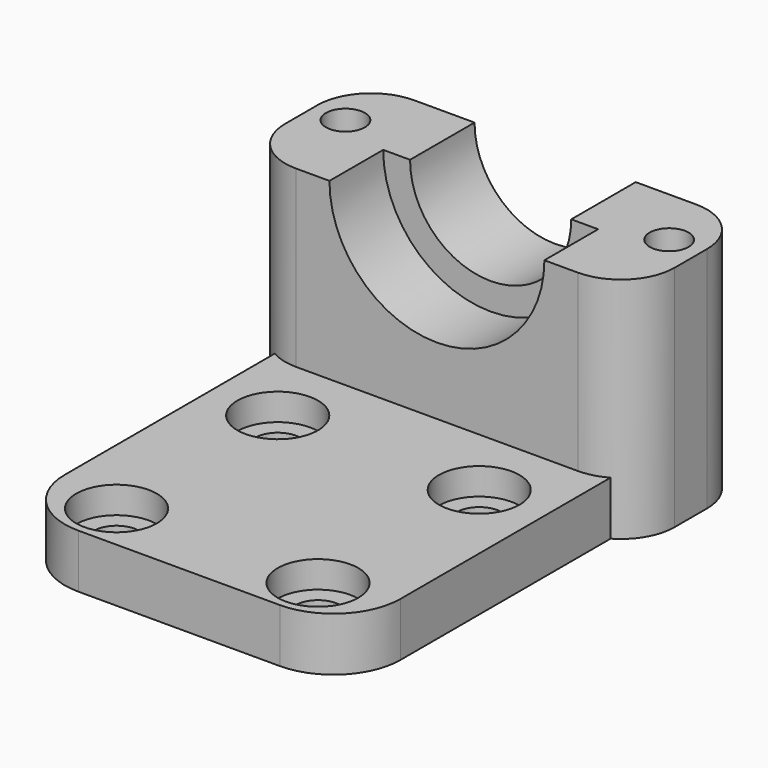
from build123d import *

# Parameters (mm, degrees)
F0_W      = 25
F0_H      = 35
F1_DEPTH  = 4
F2_R      = 1.675
F3_DEPTH  = 25
F4_W      = 25
F4_H      = 11
F5_DEPTH  = 13
F7_DEPTH  = 6
F8_R      = 8
F9_DEPTH  = 5
F2_R_2    = 3
F10_DEPTH = 2
F11_R     = 5
F12_W     = 11
F12_H     = 17
F13_DEPTH = 2
F14_W     = 11
F14_H     = 17
F15_DEPTH = 2
F16_R     = 1.45
F17_DEPTH = 25
F18_R     = 4


with BuildPart() as f1:
    # F0 (on Top) → F1 (new body)
    with BuildSketch(Plane.XY):
        with Locations((12.5, 17.5)):
            Rectangle(F0_W, F0_H)
    extrude(amount=F1_DEPTH)

    # F2 (on face) → F3 (cut)
    with BuildSketch(Plane.XY.offset(4)):
        with BuildLine():
            ThreePointArc((3.325, 18.5605346784), (5, 16.8855346784), (6.675, 18.5605346784))
            ThreePointArc((6.675, 18.5605346784), (5, 20.2355346784), (3.325, 18.5605346784))
        make_face()
        with Locations((20, 18.5605346784)):
            Circle(F2_R)
        with Locations((20, 3.5605346784)):
            Circle(F2_R)
        with Locations((5, 3.5605346784)):
            Circle(F2_R)
    extrude(amount=-F3_DEPTH, mode=Mode.SUBTRACT)

    # F4 (on face) → F5 (join)
    with BuildSketch(Plane.XY.offset(4)):
        with Locations((12.5, 29.5)):
            Rectangle(F4_W, F4_H)
    extrude(amount=F5_DEPTH)

    # F6 (on face) → F7 (cut)
    with BuildSketch(Plane(origin=(0, 35, 0), x_dir=(-1, 0, 0), z_dir=(0, 1, 0))):
        with BuildLine():
            ThreePointArc((-18.5, 17), (-12.5, 11), (-6.5, 17))
            Line((-6.5, 17), (-18.5, 17))
        make_face()
    extrude(amount=-F7_DEPTH, mode=Mode.SUBTRACT)

    # F8 (on face) → F9 (cut)
    with BuildSketch(Plane.XZ.offset(-24)):
        with Locations((12.5, 17)):
            Circle(F8_R)
    extrude(amount=-F9_DEPTH, mode=Mode.SUBTRACT)

    # F2 (on face) → F10 (cut)
    with BuildSketch(Plane.XY.offset(4)):
        with BuildLine():
            ThreePointArc((8, 18.5605346784), (5, 21.5605346784), (2, 18.5605346784))
            ThreePointArc((2, 18.5605346784), (5, 15.5605346784), (8, 18.5605346784))
        make_face()
        with BuildLine():
            ThreePointArc((3.325, 18.5605346784), (5, 20.2355346784), (6.675, 18.5605346784))
            ThreePointArc((6.675, 18.5605346784), (5, 16.8855346784), (3.325, 18.5605346784))
        make_face(mode=Mode.SUBTRACT)
        with Locations((20, 18.5605346784)):
            Circle(F2_R_2)
        with Locations((20, 18.5605346784)):
            Circle(F2_R, mode=Mode.SUBTRACT)
        with Locations((20, 3.5605346784)):
            Circle(F2_R_2)
        with Locations((20, 3.5605346784)):
            Circle(F2_R, mode=Mode.SUBTRACT)
        with Locations((5, 3.5605346784)):
            Circle(F2_R_2)
        with Locations((5, 3.5605346784)):
            Circle(F2_R, mode=Mode.SUBTRACT)
    extrude(amount=-F10_DEPTH, mode=Mode.SUBTRACT)

    # F11
    f11_edges = [f1.edges().sort_by_distance(p)[0] for p in [
        (0, 0, 2),
        (25, 0, 2),
    ]]
    fillet(f11_edges, radius=F11_R)

    # F12 (on face) → F13 (join)
    with BuildSketch(Plane(origin=(0, 0, 0), x_dir=(0, -1, 0), z_dir=(-1, 0, 0))):
        with Locations((-29.5, 8.5)):
            Rectangle(F12_W, F12_H)
    extrude(amount=F13_DEPTH)

    # F14 (on face) → F15 (join)
    with BuildSketch(Plane.YZ.offset(25)):
        with Locations((29.5, 8.5)):
            Rectangle(F14_W, F14_H)
    extrude(amount=F15_DEPTH)

    # F16 (on face) → F17 (cut)
    with BuildSketch(Plane.XY.offset(17)):
        with Locations((0.45, 30.55)):
            Circle(F16_R)
        with Locations((24.55, 30.55)):
            Circle(F16_R)
    extrude(amount=-F17_DEPTH, mode=Mode.SUBTRACT)

    # F18
    f18_edges = [f1.edges().sort_by_distance(p)[0] for p in [
        (-2, 24, 8.5),
        (-2, 35, 8.5),
        (27, 35, 8.5),
        (27, 24, 8.5),
    ]]
    fillet(f18_edges, radius=F18_R)


solid = f1.part
